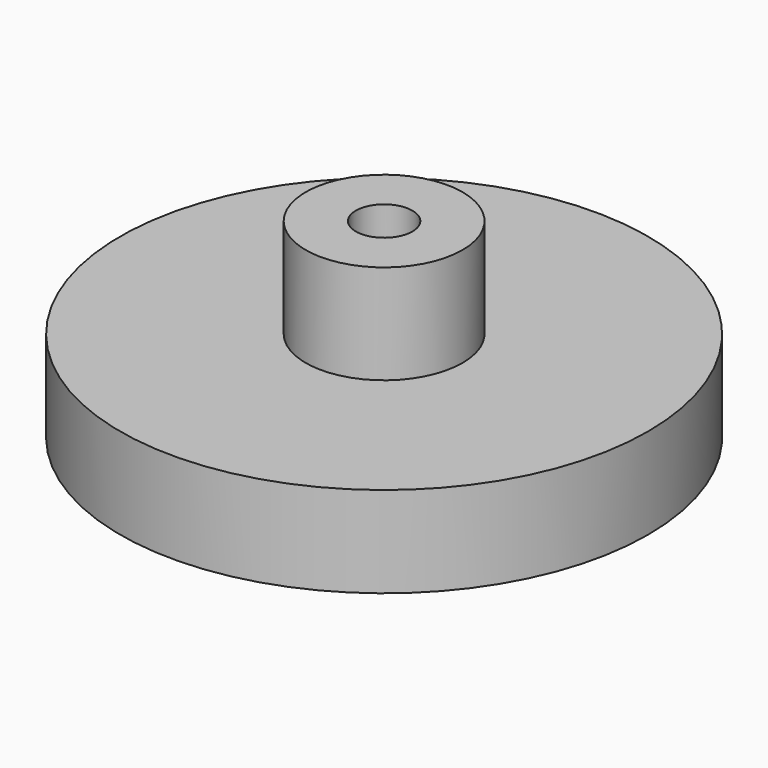
from build123d import *

# Parameters (mm, degrees)
F2_R     = 4.7625
F4_DEPTH = 25.4
F5_R     = 1.5875
F6_DEPTH = 25.4


with BuildPart() as f1:
    # F0 (on Front) → F1 (revolve)
    with BuildSketch(Plane.XZ):
        Polygon((0, 24.795596), (0, 0), (44.45, 17.542299), (44.45, 24.795596), align=None)
        Polygon((0, 49.591192), (0, 24.795596), (44.45, 24.795596), (44.45, 32.854902), (13.208, 32.854902), (13.208, 49.591192), align=None)
    revolve(axis=Axis((0, 0, 24.795596), (0, 0, 1)))

    # F2 (on face) → F4 (cut)
    with BuildSketch(Plane.XY.offset(49.591192)):
        Circle(F2_R)
    extrude(amount=-F4_DEPTH, mode=Mode.SUBTRACT)

    # F5 (on Top) → F6 (cut)
    with BuildSketch(Plane.XY):
        Circle(F5_R)
    extrude(amount=F6_DEPTH, mode=Mode.SUBTRACT)


solid = f1.part
